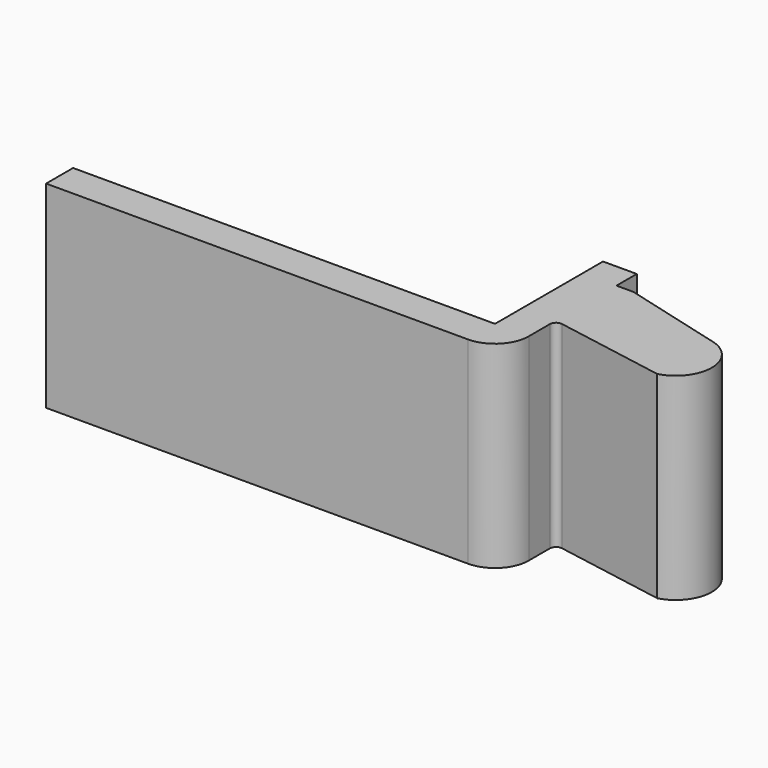
from build123d import *

# Parameters (mm, degrees)
F1_DEPTH = 5.85
F2_R     = 2
F3_R     = 0.365402
F4_W     = 6.1
F4_H     = 7.6
F5_DEPTH = 1.5


with BuildPart() as f1:
    # F0 (on Top) → F1 (new body, symmetric)
    with BuildSketch(Plane.XY):
        with BuildLine():
            Line((25, 1), (0, 1))
            Line((0, 1), (0, -1))
            Line((0, -1), (27, -1))
            Line((27, -1), (27, 3))
            Line((27, 3), (34, 1.765711))
            ThreePointArc((34, 1.765711), (35.583223, 3.829008), (34, 5.892305))
            Line((34, 5.892305), (28, 7.5))
            Line((28, 7.5), (27, 7.5))
            Line((27, 7.5), (27, 9))
            Line((27, 9), (25, 9))
            Line((25, 9), (25, 1))
        make_face()
    extrude(amount=F1_DEPTH, both=True)

    # F2
    f2_edges = [f1.edges().sort_by_distance(p)[0] for p in [
        (27, -1, 0),
    ]]
    fillet(f2_edges, radius=F2_R)

    # F3
    f3_edges = [f1.edges().sort_by_distance(p)[0] for p in [
        (27, 3, 0),
    ]]
    fillet(f3_edges, radius=F3_R)

    # F4 (on face) → F5 (cut)
    with BuildSketch(Plane(origin=(3.750644, 13.997595, 0), x_dir=(-0.965926, 0.258819, 0), z_dir=(0.258819, 0.965926, 0))):
        with Locations((-28.210609, 0)):
            Rectangle(F4_W, F4_H)
    extrude(amount=-F5_DEPTH, mode=Mode.SUBTRACT)


solid = f1.part
